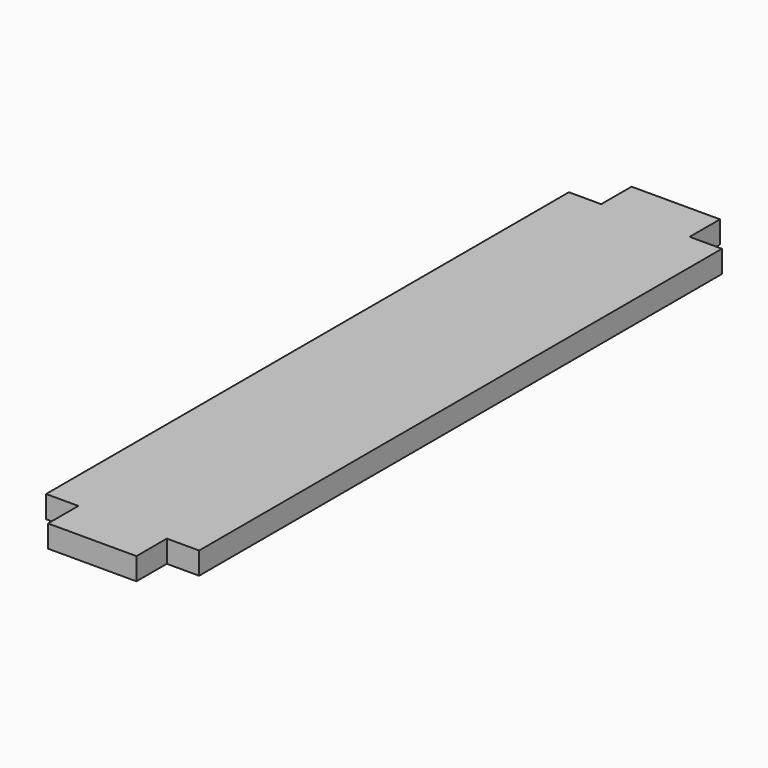
from build123d import *

# Parameters (mm, degrees)
EXTRUDE_DEPTH = 5.9944


with BuildPart() as part:
    # Sketch → Extrude (new body)
    with BuildSketch(Plane.XY):
        Polygon((0.007428, -10.638666), (8.719628, -10.638666), (8.719628, -0.402466), (32.570228, -0.402466), (32.570228, -10.638666), (41.282428, -10.638666), (41.282428, -186.889266), (32.570228, -186.889266), (32.570228, -197.125466), (8.719628, -197.125466), (8.719628, -186.889266), (0.007428, -186.889266), align=None)
    extrude(amount=EXTRUDE_DEPTH)


solid = part.part
